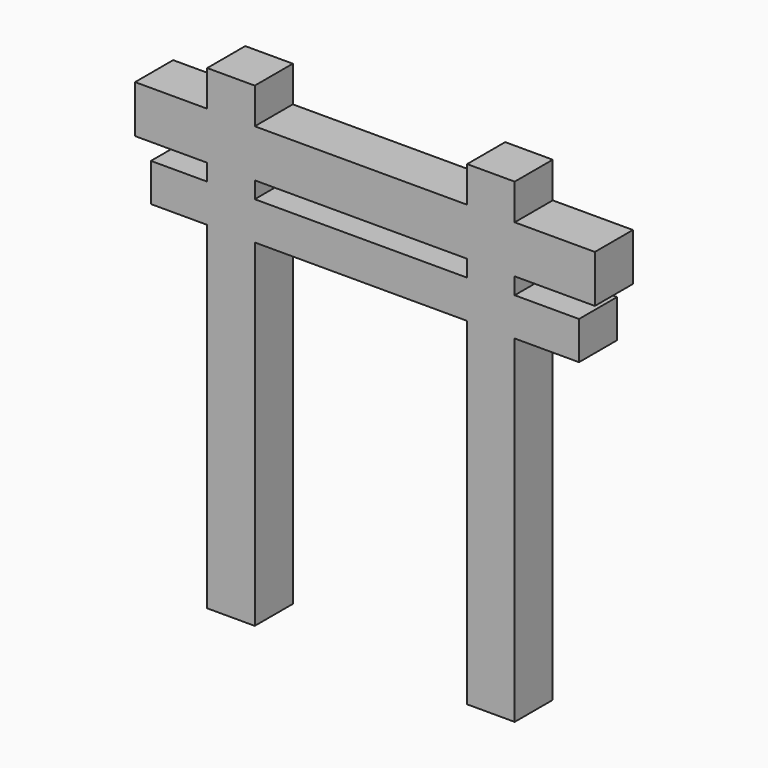
from build123d import *

# Parameters (mm, degrees)
F0_W     = 15
F0_H     = 15
F1_DEPTH = 150
F3_W     = 135
F3_H     = 12
F4_DEPTH = 7.5
F5_W     = 145
F5_H     = 15
F6_DEPTH = 7.5


with BuildPart() as f1:
    # F0 (on Top) → F1 (new body)
    with BuildSketch(Plane.XY):
        with Locations((-42.26087, 0)):
            Rectangle(F0_W, F0_H)
        with Locations((39.717395, 0)):
            Rectangle(F0_W, F0_H)
    extrude(amount=F1_DEPTH)


with BuildPart() as f1_1:
    # F2: moved
    add(f1.part.moved(Location((0, 0, -75.4))))

    # F3 (on Front) → F4 (join, symmetric)
    with BuildSketch(Plane.XZ):
        with Locations((0, 37.059784)):
            Rectangle(F3_W, F3_H)
    extrude(amount=F4_DEPTH, both=True)

    # F5 (on Front) → F6 (join, symmetric)
    with BuildSketch(Plane.XZ):
        with Locations((0, 55.807658)):
            Rectangle(F5_W, F5_H)
    extrude(amount=F6_DEPTH, both=True)


solid = f1_1.part
